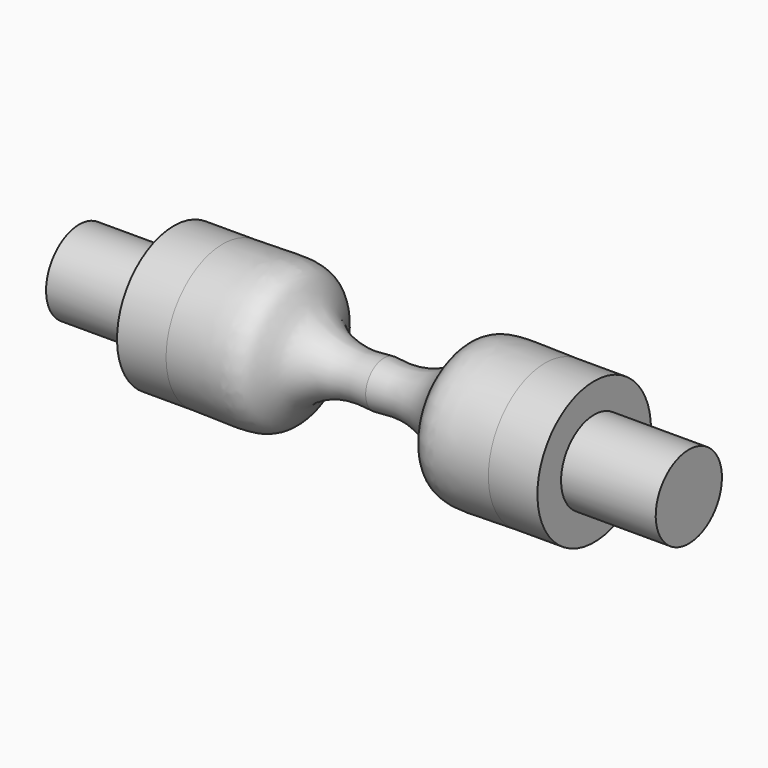
from build123d import *


with BuildPart() as f1:
    # F0 (on Front) → F1 (revolve)
    with BuildSketch(Plane.XZ):
        with BuildLine():
            Line((0, 9.6923084871), (0, 0))
            Line((0, 0), (128.8461439112, 0))
            Line((128.8461439112, 0), (128.8461439112, 17.5))
            Line((128.8461439112, 17.5), (88.8461439112, 17.5))
            Line((88.8461439112, 17.5), (88.8461439112, 30))
            Line((88.8461439112, 30), (68.1153744155, 30))
            add(Edge.make_bspline(
                [(0, 9.6923084871), (4.2903837959, 9.2833106214), (13.4700518004, 8.4082223307), (31.2065009966, 15.3510841597), (35.2364916061, 30.6873308582), (53.225939561, 30.2545752312), (63.1567054052, 30.0847818821), (68.1153744155, 30)],
                knots=[0, 0, 0, 0, 0.1895589819, 0.4055787556, 0.5938281877, 0.7971886952, 1, 1, 1, 1], degree=3))
        make_face()
    revolve(axis=Axis((64.4230719556, 0, 0), (-1, 0, 0)))

    # F2: F1 across face


with BuildPart() as f1_1:
    add(f1.part)
    add(f1.part.mirror(Plane(origin=(0, 0, 0), x_dir=(0, -1, 0), z_dir=(-1, 0, 0))))


solid = f1_1.part
